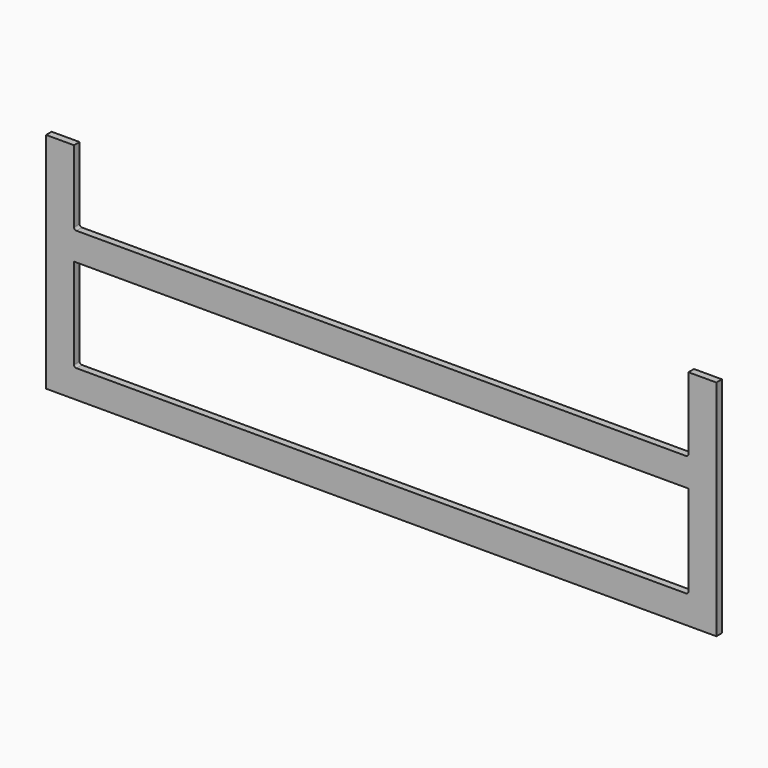
from build123d import *

# Parameters (mm, degrees)
F0_W     = 838.2
F0_H     = 127
F1_DEPTH = 9.525
F2_R     = 3.175


with BuildPart() as f1:
    # F0 (on Front) → F1 (new body)
    with BuildSketch(Plane.XZ):
        Polygon((-487.343022, -18.861064), (-525.443022, -18.861064), (-525.443022, -323.661064), (388.956978, -323.661064), (388.956978, -18.861064), (350.856978, -18.861064), (350.856978, -120.461064), (-487.343022, -120.461064), align=None)
        with Locations((-68.243022, -222.061064)):
            Rectangle(F0_W, F0_H, mode=Mode.SUBTRACT)
    extrude(amount=F1_DEPTH)

    # F2
    f2_edges = [f1.edges().sort_by_distance(p)[0] for p in [
        (-487.343022, -4.7625, -285.561064),
        (350.856978, -4.7625, -285.561064),
        (350.856978, -4.7625, -120.461064),
        (-487.343022, -4.7625, -120.461064),
    ]]
    fillet(f2_edges, radius=F2_R)


solid = f1.part
